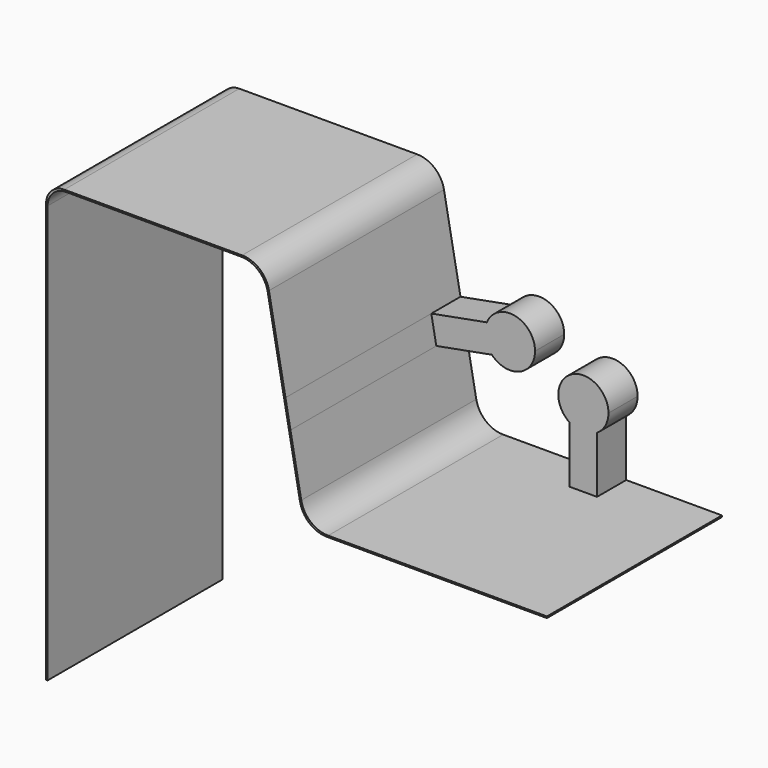
from build123d import *

# Parameters (mm, degrees)
F1_DEPTH = 152.4
F2_DEPTH = 25.4


with BuildPart() as f1:
    # F0 (on Front) → F1 (new body)
    with BuildSketch(Plane.XZ):
        with BuildLine():
            Line((0, 206.375), (0, 0))
            Line((0, 0), (1.0668, 0))
            Line((1.0668, 0), (1.0668, 291.0332))
            ThreePointArc((1.0668, 291.0332), (4.786544, 300.013456), (13.7668, 303.7332))
            Line((13.7668, 303.7332), (135.673917, 303.7332))
            ThreePointArc((135.673917, 303.7332), (147.853128, 299.331385), (154.403926, 288.160163))
            Line((154.403926, 288.160163), (176.913011, 166.906237))
            ThreePointArc((176.913011, 166.906237), (183.463809, 155.735015), (195.64302, 151.3332))
            Line((195.64302, 151.3332), (348.930009, 151.3332))
            Line((348.930009, 151.3332), (348.930009, 152.4))
            Line((348.930009, 152.4), (282.255009, 152.4))
            Line((282.255009, 152.4), (263.205009, 152.4))
            Line((263.205009, 152.4), (196.530009, 152.4))
            ThreePointArc((196.530009, 152.4), (184.350798, 156.801815), (177.8, 167.973037))
            Line((177.8, 167.973037), (170.266581, 208.554723))
            Line((170.266581, 208.554723), (166.789619, 227.284732))
            Line((166.789619, 227.284732), (155.290915, 289.226963))
            ThreePointArc((155.290915, 289.226963), (148.740117, 300.398185), (136.560906, 304.8))
            Line((136.560906, 304.8), (12.7, 304.8))
            ThreePointArc((12.7, 304.8), (3.719744, 301.080256), (0, 292.1))
            Line((0, 292.1), (0, 225.425))
            Line((0, 225.425), (0, 206.375))
        make_face()
    extrude(amount=F1_DEPTH)

    # F0 (on Front) → F2 (join)
    with BuildSketch(Plane.XZ):
        with BuildLine():
            ThreePointArc((-39.338973, 225.425), (-71.4375, 215.9), (-39.338973, 206.375))
            ThreePointArc((-39.338973, 206.375), (-37.234024, 210.93224), (-36.5125, 215.9))
            ThreePointArc((-36.5125, 215.9), (-37.234024, 220.86776), (-39.338973, 225.425))
        make_face()
        with BuildLine():
            Line((-39.338973, 206.375), (0, 206.375))
            Line((0, 206.375), (0, 225.425))
            Line((0, 225.425), (-39.338973, 225.425))
            ThreePointArc((-39.338973, 225.425), (-37.234024, 220.86776), (-36.5125, 215.9))
            ThreePointArc((-36.5125, 215.9), (-37.234024, 210.93224), (-39.338973, 206.375))
        make_face()
        with BuildLine():
            Line((205.467798, 234.464792), (166.789619, 227.284732))
            Line((166.789619, 227.284732), (170.266581, 208.554723))
            Line((170.266581, 208.554723), (208.94476, 215.734783))
            ThreePointArc((208.94476, 215.734783), (204.427283, 224.583906), (205.467798, 234.464792))
        make_face()
        with BuildLine():
            ThreePointArc((239.058958, 227.771122), (225.009095, 244.896916), (205.467798, 234.464792))
            ThreePointArc((205.467798, 234.464792), (204.427283, 224.583906), (208.94476, 215.734783))
            ThreePointArc((208.94476, 215.734783), (228.077532, 211.555864), (239.058958, 227.771122))
        make_face()
        with BuildLine():
            ThreePointArc((263.205009, 191.738973), (272.730009, 188.9125), (282.255009, 191.738973))
            ThreePointArc((282.255009, 191.738973), (288.080403, 198.05008), (290.192509, 206.375))
            ThreePointArc((290.192509, 206.375), (264.405089, 221.725394), (263.205009, 191.738973))
        make_face()
        with BuildLine():
            Line((263.205009, 152.4), (282.255009, 152.4))
            Line((282.255009, 152.4), (282.255009, 191.738973))
            ThreePointArc((282.255009, 191.738973), (272.730009, 188.9125), (263.205009, 191.738973))
            Line((263.205009, 191.738973), (263.205009, 152.4))
        make_face()
    extrude(amount=F2_DEPTH)


solid = f1.part
